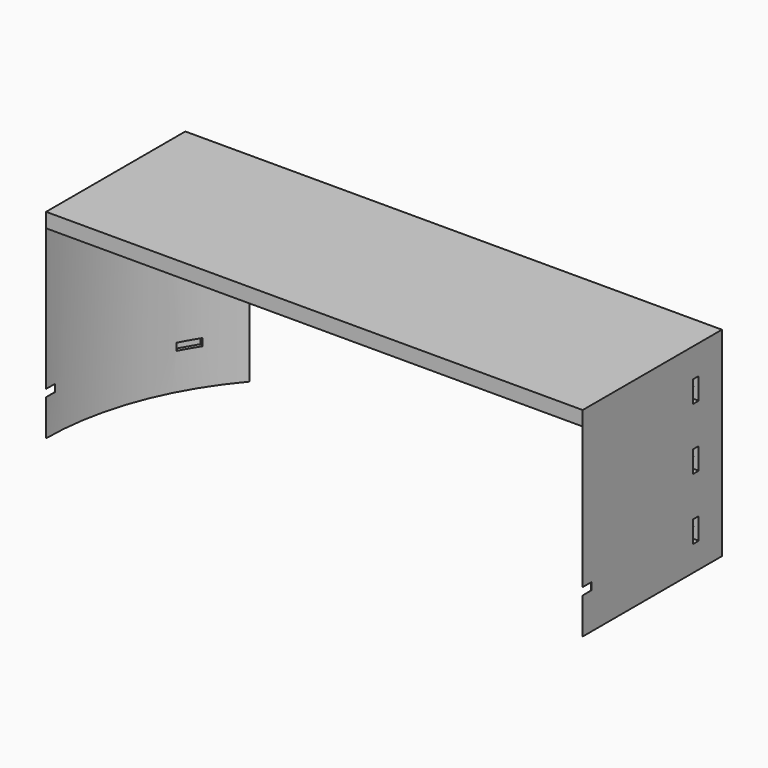
from build123d import *

# Parameters (mm, degrees)
BOX700_W               = 6
BOX700_H               = 8
BOX700_DEPTH           = 2
BOX700_PLACEMENT_ANGLE = 30
BOX701_W               = 6
BOX701_H               = 8
BOX701_DEPTH           = 2
BOX701_PLACEMENT_ANGLE = 60
BOX702_W               = 6
BOX702_H               = 8
BOX702_DEPTH           = 2
BOX703_W               = 6
BOX703_H               = 8
BOX703_DEPTH           = 2
BOX703_PLACEMENT_ANGLE = 120
BOX704_W               = 6
BOX704_H               = 8
BOX704_DEPTH           = 2
BOX704_PLACEMENT_ANGLE = 150
BOX705_W               = 6
BOX705_H               = 8
BOX705_DEPTH           = 2
BOX706_W               = 6
BOX706_H               = 8
BOX706_DEPTH           = 2
BOX706_PLACEMENT_ANGLE = 210
BOX707_W               = 6
BOX707_H               = 8
BOX707_DEPTH           = 2
BOX707_PLACEMENT_ANGLE = 240
BOX708_W               = 6
BOX708_H               = 8
BOX708_DEPTH           = 2
BOX709_W               = 6
BOX709_H               = 8
BOX709_DEPTH           = 2
BOX709_PLACEMENT_ANGLE = 60
BOX710_W               = 6
BOX710_H               = 8
BOX710_DEPTH           = 2
BOX710_PLACEMENT_ANGLE = 30
BOX699_W               = 6
BOX699_H               = 8
BOX699_DEPTH           = 2
BOX513_W               = 8
BOX513_H               = 2
BOX513_DEPTH           = 6
BOX514_W               = 8
BOX514_H               = 2
BOX514_DEPTH           = 6
BOX515_W               = 8
BOX515_H               = 2
BOX515_DEPTH           = 6
BOX516_W               = 8
BOX516_H               = 2
BOX516_DEPTH           = 6
BOX517_W               = 8
BOX517_H               = 2
BOX517_DEPTH           = 6
BOX512_W               = 8
BOX512_H               = 2
BOX512_DEPTH           = 6
CYLINDER1754_R         = 1.5
CYLINDER1754_DEPTH     = 50
CYLINDER1755_R         = 1.5
CYLINDER1755_DEPTH     = 50
CYLINDER1756_R         = 1.5
CYLINDER1756_DEPTH     = 50
CYLINDER1757_R         = 1.5
CYLINDER1757_DEPTH     = 50
CYLINDER1758_R         = 1.5
CYLINDER1758_DEPTH     = 50
CYLINDER1753_R         = 1.5
CYLINDER1753_DEPTH     = 50
BOX484_W               = 148
BOX484_H               = 26
BOX484_DEPTH           = 55
CYLINDER972_R          = 74
CYLINDER972_DEPTH      = 51
BOX482_W               = 148
BOX482_H               = 74
BOX482_DEPTH           = 55


with BuildPart() as krychle700:
    # Box700 → Box700 (new body)
    with BuildSketch(Plane.XY):
        with Locations((3, 4)):
            Rectangle(BOX700_W, BOX700_H)
    extrude(amount=BOX700_DEPTH)


with BuildPart() as krychle700_1:
    # Box700 placement: moved
    add(krychle700.part.moved(Location((34.901924, -66.451905, 39))).rotate(Axis((34.901924, -66.451905, 39), (0, 0, 1)), BOX700_PLACEMENT_ANGLE))


with BuildPart() as krychle701:
    # Box701 → Box701 (new body)
    with BuildSketch(Plane.XY):
        with Locations((3, 4)):
            Rectangle(BOX701_W, BOX701_H)
    extrude(amount=BOX701_DEPTH)


with BuildPart() as krychle701_1:
    # Box701 placement: moved
    add(krychle701.part.moved(Location((63.451905, -40.098076, 39))).rotate(Axis((63.451905, -40.098076, 39), (0, 0, 1)), BOX701_PLACEMENT_ANGLE))


with BuildPart() as krychle702:
    # Box702 → Box702 (new body)
    with BuildSketch(Plane(origin=(75, -3, 39), x_dir=(0, 1, 0), z_dir=(0, 0, 1))):
        with Locations((3, 4)):
            Rectangle(BOX702_W, BOX702_H)
    extrude(amount=BOX702_DEPTH)


with BuildPart() as krychle703:
    # Box703 → Box703 (new body)
    with BuildSketch(Plane.XY):
        with Locations((3, 4)):
            Rectangle(BOX703_W, BOX703_H)
    extrude(amount=BOX703_DEPTH)


with BuildPart() as krychle703_1:
    # Box703 placement: moved
    add(krychle703.part.moved(Location((66.451905, 34.901924, 39))).rotate(Axis((66.451905, 34.901924, 39), (0, 0, 1)), BOX703_PLACEMENT_ANGLE))


with BuildPart() as krychle704:
    # Box704 → Box704 (new body)
    with BuildSketch(Plane.XY):
        with Locations((3, 4)):
            Rectangle(BOX704_W, BOX704_H)
    extrude(amount=BOX704_DEPTH)


with BuildPart() as krychle704_1:
    # Box704 placement: moved
    add(krychle704.part.moved(Location((40.098076, 63.451905, 39))).rotate(Axis((40.098076, 63.451905, 39), (0, 0, 1)), BOX704_PLACEMENT_ANGLE))


with BuildPart() as krychle705:
    # Box705 → Box705 (new body)
    with BuildSketch(Plane(origin=(3, 75, 39), x_dir=(-1, 0, 0), z_dir=(0, 0, 1))):
        with Locations((3, 4)):
            Rectangle(BOX705_W, BOX705_H)
    extrude(amount=BOX705_DEPTH)


with BuildPart() as krychle706:
    # Box706 → Box706 (new body)
    with BuildSketch(Plane.XY):
        with Locations((3, 4)):
            Rectangle(BOX706_W, BOX706_H)
    extrude(amount=BOX706_DEPTH)


with BuildPart() as krychle706_1:
    # Box706 placement: moved
    add(krychle706.part.moved(Location((-34.901924, 66.451905, 39))).rotate(Axis((-34.901924, 66.451905, 39), (0, 0, 1)), BOX706_PLACEMENT_ANGLE))


with BuildPart() as krychle707:
    # Box707 → Box707 (new body)
    with BuildSketch(Plane.XY):
        with Locations((3, 4)):
            Rectangle(BOX707_W, BOX707_H)
    extrude(amount=BOX707_DEPTH)


with BuildPart() as krychle707_1:
    # Box707 placement: moved
    add(krychle707.part.moved(Location((-63.451905, 40.098076, 39))).rotate(Axis((-63.451905, 40.098076, 39), (0, 0, 1)), BOX707_PLACEMENT_ANGLE))


with BuildPart() as krychle708:
    # Box708 → Box708 (new body)
    with BuildSketch(Plane(origin=(-75, 3, 39), x_dir=(0, -1, 0), z_dir=(0, 0, 1))):
        with Locations((3, 4)):
            Rectangle(BOX708_W, BOX708_H)
    extrude(amount=BOX708_DEPTH)


with BuildPart() as krychle709:
    # Box709 → Box709 (new body)
    with BuildSketch(Plane.XY):
        with Locations((3, 4)):
            Rectangle(BOX709_W, BOX709_H)
    extrude(amount=BOX709_DEPTH)


with BuildPart() as krychle709_1:
    # Box709 placement: moved
    add(krychle709.part.moved(Location((-66.451905, -34.901924, 39))).rotate(Axis((-66.451905, -34.901924, 39), (0, 0, -1)), BOX709_PLACEMENT_ANGLE))


with BuildPart() as krychle710:
    # Box710 → Box710 (new body)
    with BuildSketch(Plane.XY):
        with Locations((3, 4)):
            Rectangle(BOX710_W, BOX710_H)
    extrude(amount=BOX710_DEPTH)


with BuildPart() as krychle710_1:
    # Box710 placement: moved
    add(krychle710.part.moved(Location((-40.098076, -63.451905, 39))).rotate(Axis((-40.098076, -63.451905, 39), (0, 0, -1)), BOX710_PLACEMENT_ANGLE))


with BuildPart() as compound888:
    # Box699 → Box699 (new body)
    with BuildSketch(Plane(origin=(-3, -75, 39), x_dir=(1, 0, 0), z_dir=(0, 0, 1))):
        with Locations((3, 4)):
            Rectangle(BOX699_W, BOX699_H)
    extrude(amount=BOX699_DEPTH)

    # Compound888: union Krychle700, Krychle701, Krychle702, Krychle703, Krychle704, Krychle705, Krychle706, Krychle707, Krychle708, Krychle709, Krychle710
    add(krychle700_1.part)
    add(krychle701_1.part)
    add(krychle702.part)
    add(krychle703_1.part)
    add(krychle704_1.part)
    add(krychle705.part)
    add(krychle706_1.part)
    add(krychle707_1.part)
    add(krychle708.part)
    add(krychle709_1.part)
    add(krychle710_1.part)


with BuildPart() as krychle513:
    # Box513 → Box513 (new body)
    with BuildSketch(Plane(origin=(67, 38, 36), x_dir=(1, 0, 0), z_dir=(0, 0, 1))):
        with Locations((4, 1)):
            Rectangle(BOX513_W, BOX513_H)
    extrude(amount=BOX513_DEPTH)


with BuildPart() as krychle514:
    # Box514 → Box514 (new body)
    with BuildSketch(Plane(origin=(67, 38, 70), x_dir=(1, 0, 0), z_dir=(0, 0, 1))):
        with Locations((4, 1)):
            Rectangle(BOX514_W, BOX514_H)
    extrude(amount=BOX514_DEPTH)


with BuildPart() as krychle515:
    # Box515 → Box515 (new body)
    with BuildSketch(Plane(origin=(-75, 38, 70), x_dir=(1, 0, 0), z_dir=(0, 0, 1))):
        with Locations((4, 1)):
            Rectangle(BOX515_W, BOX515_H)
    extrude(amount=BOX515_DEPTH)


with BuildPart() as krychle516:
    # Box516 → Box516 (new body)
    with BuildSketch(Plane(origin=(-75, 38, 53), x_dir=(1, 0, 0), z_dir=(0, 0, 1))):
        with Locations((4, 1)):
            Rectangle(BOX516_W, BOX516_H)
    extrude(amount=BOX516_DEPTH)


with BuildPart() as krychle517:
    # Box517 → Box517 (new body)
    with BuildSketch(Plane(origin=(67, 38, 53), x_dir=(1, 0, 0), z_dir=(0, 0, 1))):
        with Locations((4, 1)):
            Rectangle(BOX517_W, BOX517_H)
    extrude(amount=BOX517_DEPTH)


with BuildPart() as compound530:
    # Box512 → Box512 (new body)
    with BuildSketch(Plane(origin=(-75, 38, 36), x_dir=(1, 0, 0), z_dir=(0, 0, 1))):
        with Locations((4, 1)):
            Rectangle(BOX512_W, BOX512_H)
    extrude(amount=BOX512_DEPTH)

    # Compound530: union Krychle513, Krychle514, Krychle515, Krychle516, Krychle517
    add(krychle513.part)
    add(krychle514.part)
    add(krychle515.part)
    add(krychle516.part)
    add(krychle517.part)


with BuildPart() as obj1:
    # Cylinder1754 → Cylinder1754 (new body)
    with BuildSketch(Plane(origin=(71, 80, 39), x_dir=(1, 0, 0), z_dir=(0, -1, 0))):
        Circle(CYLINDER1754_R)
    extrude(amount=CYLINDER1754_DEPTH)


with BuildPart() as obj2:
    # Cylinder1755 → Cylinder1755 (new body)
    with BuildSketch(Plane(origin=(-71, 80, 39), x_dir=(1, 0, 0), z_dir=(0, -1, 0))):
        Circle(CYLINDER1755_R)
    extrude(amount=CYLINDER1755_DEPTH)


with BuildPart() as obj3:
    # Cylinder1756 → Cylinder1756 (new body)
    with BuildSketch(Plane(origin=(71, 80, 73), x_dir=(1, 0, 0), z_dir=(0, -1, 0))):
        Circle(CYLINDER1756_R)
    extrude(amount=CYLINDER1756_DEPTH)


with BuildPart() as obj4:
    # Cylinder1757 → Cylinder1757 (new body)
    with BuildSketch(Plane(origin=(-71, 80, 56), x_dir=(1, 0, 0), z_dir=(0, -1, 0))):
        Circle(CYLINDER1757_R)
    extrude(amount=CYLINDER1757_DEPTH)


with BuildPart() as obj5:
    # Cylinder1758 → Cylinder1758 (new body)
    with BuildSketch(Plane(origin=(71, 80, 56), x_dir=(1, 0, 0), z_dir=(0, -1, 0))):
        Circle(CYLINDER1758_R)
    extrude(amount=CYLINDER1758_DEPTH)


with BuildPart() as compound887:
    # Cylinder1753 → Cylinder1753 (new body)
    with BuildSketch(Plane(origin=(-71, 80, 73), x_dir=(1, 0, 0), z_dir=(0, -1, 0))):
        Circle(CYLINDER1753_R)
    extrude(amount=CYLINDER1753_DEPTH)

    # Compound887: union obj1, obj2, obj3, obj4, obj5
    add(obj1.part)
    add(obj2.part)
    add(obj3.part)
    add(obj4.part)
    add(obj5.part)


with BuildPart() as krychle484:
    # Box484 → Box484 (new body)
    with BuildSketch(Plane(origin=(-74, 48, 29), x_dir=(1, 0, 0), z_dir=(0, 0, 1))):
        with Locations((74, 13)):
            Rectangle(BOX484_W, BOX484_H)
    extrude(amount=BOX484_DEPTH)


with BuildPart() as obj6:
    # Cylinder972 → Cylinder972 (new body)
    with BuildSketch(Plane.XY.offset(29)):
        Circle(CYLINDER972_R)
    extrude(amount=CYLINDER972_DEPTH)


with BuildPart() as cut520:
    # Box482 → Box482 (new body)
    with BuildSketch(Plane(origin=(-74, 0, 29), x_dir=(1, 0, 0), z_dir=(0, 0, 1))):
        with Locations((74, 37)):
            Rectangle(BOX482_W, BOX482_H)
    extrude(amount=BOX482_DEPTH)

    # Cut451: cut obj6
    add(obj6.part, mode=Mode.SUBTRACT)

    # Cut452: cut Krychle484
    add(krychle484.part, mode=Mode.SUBTRACT)

    # Cut518: cut Compound887
    add(compound887.part, mode=Mode.SUBTRACT)

    # Cut519: cut Compound530
    add(compound530.part, mode=Mode.SUBTRACT)

    # Cut520: cut Compound888
    add(compound888.part, mode=Mode.SUBTRACT)


solid = cut520.part
